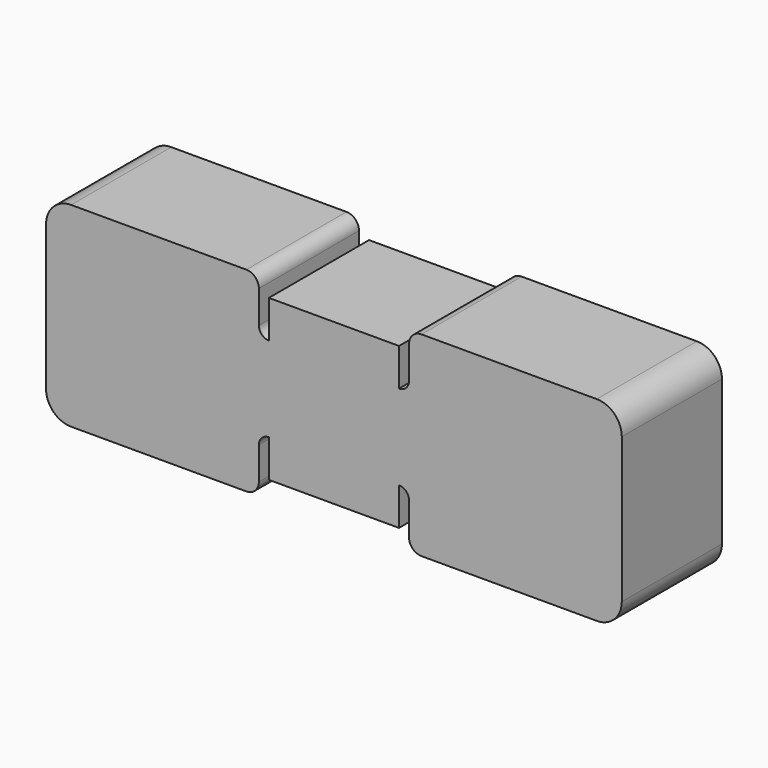
from build123d import *

# Parameters (mm, degrees)
F1_DEPTH = 12.7


with BuildPart() as f1:
    # F0 (on Front) → F1 (new body)
    with BuildSketch(Plane.XZ):
        with BuildLine():
            ThreePointArc((-15.001147, 10.01758), (-16.797198, 9.273631), (-17.541147, 7.47758))
            Line((-17.541147, 7.47758), (-17.541147, 0.11158))
            Line((-17.541147, 0.11158), (11.668853, 0.11158))
            Line((11.668853, 0.11158), (11.668853, 8.23958))
            Line((11.668853, 8.23958), (5.064853, 8.23958))
            Line((5.064853, 8.23958), (5.064853, 4.42958))
            ThreePointArc((5.064853, 4.42958), (4.346432, 4.727159), (4.048853, 5.44558))
            Line((4.048853, 5.44558), (4.048853, 8.74758))
            ThreePointArc((4.048853, 8.74758), (3.676878, 9.645606), (2.778853, 10.01758))
            Line((2.778853, 10.01758), (-15.001147, 10.01758))
        make_face()
        with BuildLine():
            Line((11.668853, 8.23958), (11.668853, 0.11158))
            Line((11.668853, 0.11158), (40.878853, 0.11158))
            Line((40.878853, 0.11158), (40.878853, 7.47758))
            ThreePointArc((40.878853, 7.47758), (40.134904, 9.273631), (38.338853, 10.01758))
            Line((38.338853, 10.01758), (20.558853, 10.01758))
            ThreePointArc((20.558853, 10.01758), (19.660827, 9.645606), (19.288853, 8.74758))
            Line((19.288853, 8.74758), (19.288853, 5.44558))
            ThreePointArc((19.288853, 5.44558), (18.991273, 4.727159), (18.272853, 4.42958))
            Line((18.272853, 4.42958), (18.272853, 8.23958))
            Line((18.272853, 8.23958), (11.668853, 8.23958))
        make_face()
        with BuildLine():
            Line((11.668853, 0.11158), (-17.541147, 0.11158))
            Line((-17.541147, 0.11158), (-17.541147, -7.25442))
            ThreePointArc((-17.541147, -7.25442), (-16.797198, -9.050471), (-15.001147, -9.79442))
            Line((-15.001147, -9.79442), (2.778853, -9.79442))
            ThreePointArc((2.778853, -9.79442), (3.676878, -9.422446), (4.048853, -8.52442))
            Line((4.048853, -8.52442), (4.048853, -5.22242))
            ThreePointArc((4.048853, -5.22242), (4.346432, -4.504), (5.064853, -4.20642))
            Line((5.064853, -4.20642), (5.064853, -8.01642))
            Line((5.064853, -8.01642), (11.668853, -8.01642))
            Line((11.668853, -8.01642), (18.272853, -8.01642))
            Line((18.272853, -8.01642), (18.272853, -4.20642))
            ThreePointArc((18.272853, -4.20642), (18.991273, -4.504), (19.288853, -5.22242))
            Line((19.288853, -5.22242), (19.288853, -8.52442))
            ThreePointArc((19.288853, -8.52442), (19.660827, -9.422446), (20.558853, -9.79442))
            Line((20.558853, -9.79442), (38.338853, -9.79442))
            ThreePointArc((38.338853, -9.79442), (40.134904, -9.050471), (40.878853, -7.25442))
            Line((40.878853, -7.25442), (40.878853, 0.11158))
            Line((40.878853, 0.11158), (11.668853, 0.11158))
        make_face()
    extrude(amount=F1_DEPTH)


solid = f1.part
